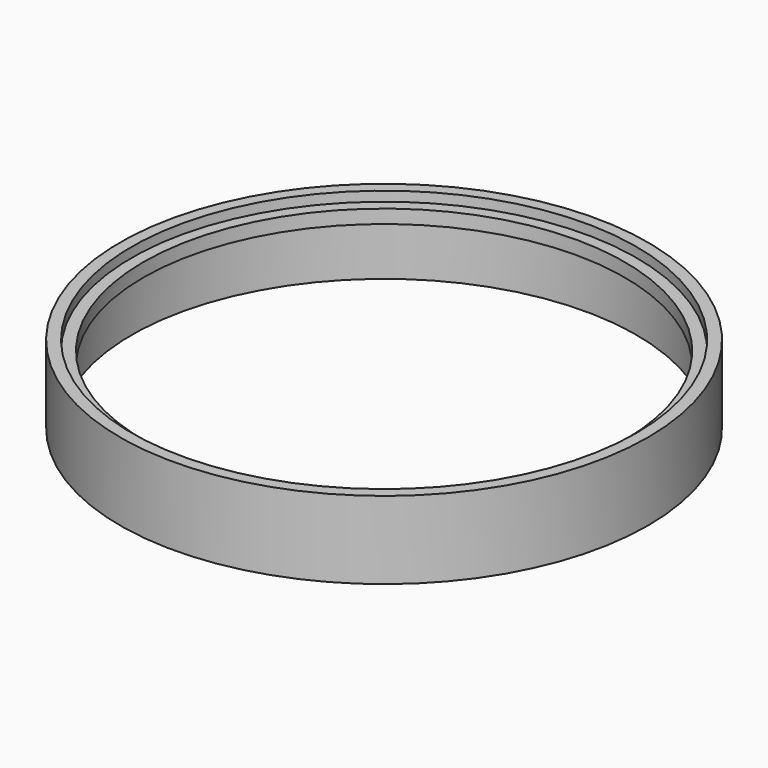
from build123d import *

# Parameters (mm, degrees)
SKETCH_R        = 34
SKETCH_R_2      = 31
PAD_DEPTH       = 10
SKETCH001_R     = 32.5
POCKET_DEPTH    = 7
SKETCH002_R     = 32.5
POCKET001_DEPTH = 1.25


with BuildPart() as part:
    # Sketch → Pad (new body)
    with BuildSketch(Plane.XY):
        Circle(SKETCH_R)
        Circle(SKETCH_R_2, mode=Mode.SUBTRACT)
    extrude(amount=PAD_DEPTH)

    # Sketch001 → Pocket (cut)
    with BuildSketch(Plane.XY):
        Circle(SKETCH001_R)
    extrude(amount=POCKET_DEPTH, mode=Mode.SUBTRACT)

    # Sketch002 → Pocket001 (cut)
    with BuildSketch(Plane.XY.offset(10)):
        Circle(SKETCH002_R)
    extrude(amount=-POCKET001_DEPTH, mode=Mode.SUBTRACT)


solid = part.part
